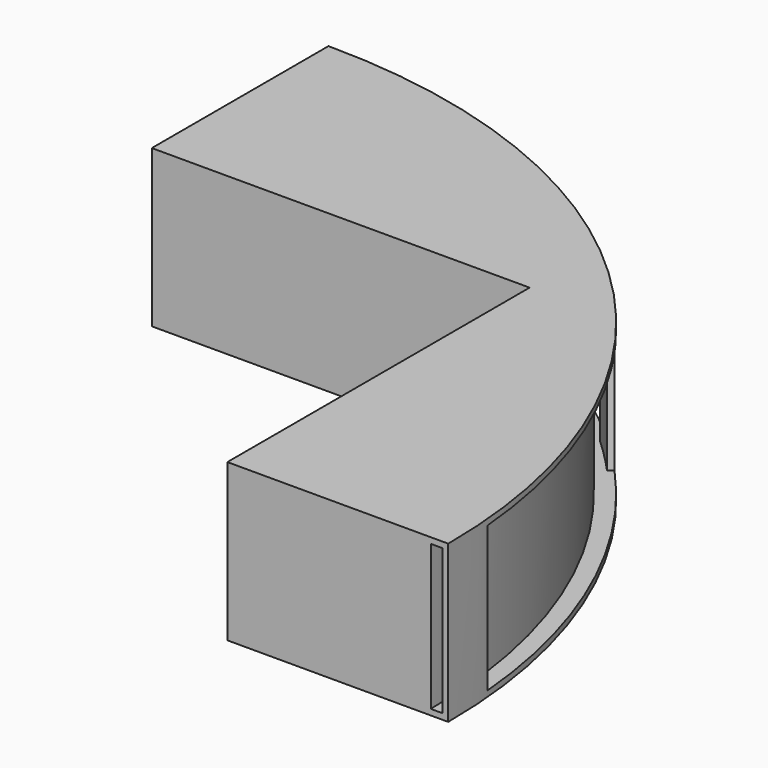
from build123d import *

# Parameters (mm, degrees)
CYLINDER008_W          = 102
CYLINDER008_H          = 27
CYLINDER008_ANGLE      = 5
CYLINDER007_W          = 103
CYLINDER007_H          = 27
CYLINDER007_ANGLE      = 5
CUT003_PLACEMENT_ANGLE = 85
CYLINDER004_W          = 102
CYLINDER004_H          = 27
CYLINDER004_ANGLE      = 5
CYLINDER003_W          = 103
CYLINDER003_H          = 27
CYLINDER003_ANGLE      = 5
CYLINDER005_W          = 102
CYLINDER005_H          = 27
CYLINDER005_ANGLE      = 5
CYLINDER006_W          = 103
CYLINDER006_H          = 27
CYLINDER006_ANGLE      = 5
CUT002_PLACEMENT_ANGLE = 42.5
BOX_W                  = 65
BOX_H                  = 65
BOX_DEPTH              = 27
CYLINDER001_W          = 103
CYLINDER001_H          = 1
CYLINDER001_ANGLE      = 90
CYLINDER002_W          = 103
CYLINDER002_H          = 1
CYLINDER002_ANGLE      = 90
CYLINDER_W             = 100
CYLINDER_H             = 25
CYLINDER_ANGLE         = 90


with BuildPart() as zylinder008:
    # Cylinder008 → Cylinder008 (revolve)
    with BuildSketch(Plane(origin=(0, 0, -1), x_dir=(1, 0, 0), z_dir=(0, -1, 0))):
        with Locations((51, 13.5)):
            Rectangle(CYLINDER008_W, CYLINDER008_H)
    revolve(axis=Axis((0, 0, -1), (0, 0, 1)), revolution_arc=CYLINDER008_ANGLE)


with BuildPart() as cut003:
    # Cylinder007 → Cylinder007 (revolve)
    with BuildSketch(Plane(origin=(0, 0, -1), x_dir=(1, 0, 0), z_dir=(0, -1, 0))):
        with Locations((51.5, 13.5)):
            Rectangle(CYLINDER007_W, CYLINDER007_H)
    revolve(axis=Axis((0, 0, -1), (0, 0, 1)), revolution_arc=CYLINDER007_ANGLE)

    # Cut003: cut Zylinder008
    add(zylinder008.part, mode=Mode.SUBTRACT)


with BuildPart() as cut003_1:
    # Cut003 placement: moved
    add(cut003.part.rotate(Axis((0, 0, 0), (0, 0, 1)), CUT003_PLACEMENT_ANGLE))


with BuildPart() as zylinder004:
    # Cylinder004 → Cylinder004 (revolve)
    with BuildSketch(Plane(origin=(0, 0, -1), x_dir=(1, 0, 0), z_dir=(0, -1, 0))):
        with Locations((51, 13.5)):
            Rectangle(CYLINDER004_W, CYLINDER004_H)
    revolve(axis=Axis((0, 0, -1), (0, 0, 1)), revolution_arc=CYLINDER004_ANGLE)


with BuildPart() as cut001:
    # Cylinder003 → Cylinder003 (revolve)
    with BuildSketch(Plane(origin=(0, 0, -1), x_dir=(1, 0, 0), z_dir=(0, -1, 0))):
        with Locations((51.5, 13.5)):
            Rectangle(CYLINDER003_W, CYLINDER003_H)
    revolve(axis=Axis((0, 0, -1), (0, 0, 1)), revolution_arc=CYLINDER003_ANGLE)

    # Cut001: cut Zylinder004
    add(zylinder004.part, mode=Mode.SUBTRACT)


with BuildPart() as zylinder005:
    # Cylinder005 → Cylinder005 (revolve)
    with BuildSketch(Plane(origin=(0, 0, -1), x_dir=(1, 0, 0), z_dir=(0, -1, 0))):
        with Locations((51, 13.5)):
            Rectangle(CYLINDER005_W, CYLINDER005_H)
    revolve(axis=Axis((0, 0, -1), (0, 0, 1)), revolution_arc=CYLINDER005_ANGLE)


with BuildPart() as cut002:
    # Cylinder006 → Cylinder006 (revolve)
    with BuildSketch(Plane(origin=(0, 0, -1), x_dir=(1, 0, 0), z_dir=(0, -1, 0))):
        with Locations((51.5, 13.5)):
            Rectangle(CYLINDER006_W, CYLINDER006_H)
    revolve(axis=Axis((0, 0, -1), (0, 0, 1)), revolution_arc=CYLINDER006_ANGLE)

    # Cut002: cut Zylinder005
    add(zylinder005.part, mode=Mode.SUBTRACT)


with BuildPart() as cut002_1:
    # Cut002 placement: moved
    add(cut002.part.rotate(Axis((0, 0, 0), (0, 0, 1)), CUT002_PLACEMENT_ANGLE))


with BuildPart() as obj1:
    # Box → Box (new body)
    with BuildSketch(Plane.XY.offset(-1)):
        with Locations((32.5, 32.5)):
            Rectangle(BOX_W, BOX_H)
    extrude(amount=BOX_DEPTH)


with BuildPart() as zylinder001:
    # Cylinder001 → Cylinder001 (revolve)
    with BuildSketch(Plane(origin=(0, 0, -1), x_dir=(1, 0, 0), z_dir=(0, -1, 0))):
        with Locations((51.5, 0.5)):
            Rectangle(CYLINDER001_W, CYLINDER001_H)
    revolve(axis=Axis((0, 0, -1), (0, 0, 1)), revolution_arc=CYLINDER001_ANGLE)


with BuildPart() as zylinder002:
    # Cylinder002 → Cylinder002 (revolve)
    with BuildSketch(Plane(origin=(0, 0, 25), x_dir=(1, 0, 0), z_dir=(0, -1, 0))):
        with Locations((51.5, 0.5)):
            Rectangle(CYLINDER002_W, CYLINDER002_H)
    revolve(axis=Axis((0, 0, 25), (0, 0, 1)), revolution_arc=CYLINDER002_ANGLE)


with BuildPart() as fusion001:
    # Cylinder → Cylinder (revolve)
    with BuildSketch(Plane.XZ):
        with Locations((50, 12.5)):
            Rectangle(CYLINDER_W, CYLINDER_H)
    revolve(axis=Axis((0, 0, 0), (0, 0, 1)), revolution_arc=CYLINDER_ANGLE)

    # Fusion: union Zylinder001, Zylinder002
    add(zylinder001.part)
    add(zylinder002.part)

    # Cut: cut obj1
    add(obj1.part, mode=Mode.SUBTRACT)

    # Fusion001: union Cut003, Cut001, Cut002
    add(cut003_1.part)
    add(cut001.part)
    add(cut002_1.part)


solid = fusion001.part
